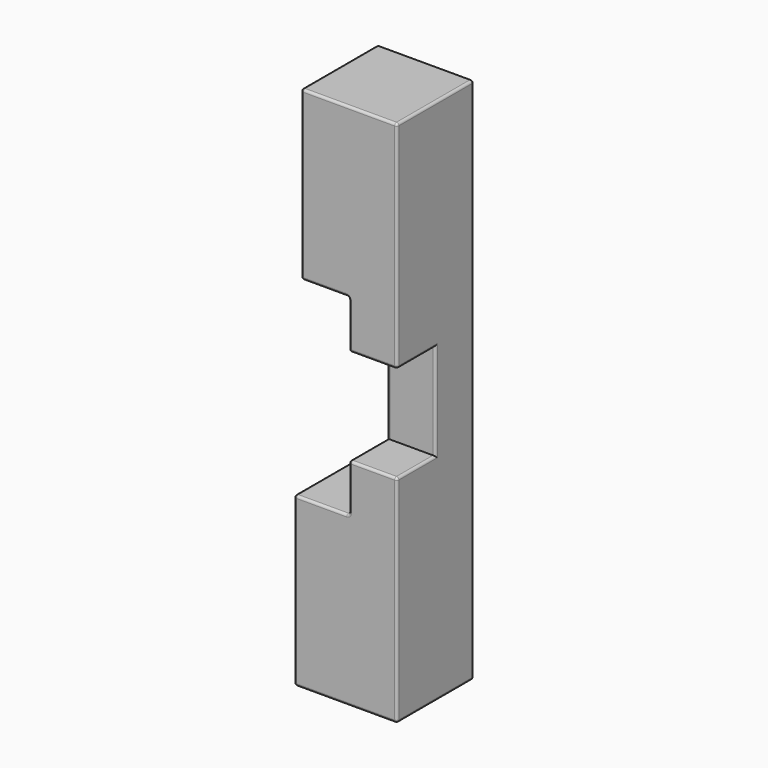
from build123d import *

# Parameters (mm, degrees)
F0_W     = 10
F0_H     = 20
F1_DEPTH = 10
F2_DEPTH = 20
F3_R     = 0.5


with BuildPart() as f1:
    # F0 (on Front) → F1 (new body)
    with BuildSketch(Plane.XZ):
        Polygon((-10, 56.511319), (-10, 21.511319), (0, 21.511319), (0, 11.511319), (10, 11.511319), (10, 56.511319), align=None)
        Polygon((10, -8.488681), (0, -8.488681), (0, -18.488681), (-11.420748, -18.488681), (-11.420748, -53.488681), (10, -53.488681), align=None)
        with Locations((5, 1.511319)):
            Rectangle(F0_W, F0_H)
    extrude(amount=F1_DEPTH)

    # F0 (on Front) → F2 (join)
    with BuildSketch(Plane.XZ):
        Polygon((-10, 56.511319), (-10, 21.511319), (0, 21.511319), (0, 11.511319), (10, 11.511319), (10, 56.511319), align=None)
        Polygon((10, -8.488681), (0, -8.488681), (0, -18.488681), (-11.420748, -18.488681), (-11.420748, -53.488681), (10, -53.488681), align=None)
    extrude(amount=F2_DEPTH)

    # F3
    f3_edges = [f1.edges().sort_by_distance(p)[0] for p in [
        (-10, -20, 39.011319),
        (-5, -20, 21.511319),
        (0, -20, 16.511319),
        (5, -20, 11.511319),
        (10, -20, 34.011319),
        (0, -20, 56.511319),
        (5, -20, -8.488681),
        (0, -20, -13.488681),
        (-5.710374, -20, -18.488681),
        (-11.420748, -20, -35.988681),
        (-0.710374, -20, -53.488681),
        (10, -20, -30.988681),
        (-10, -10, 56.511319),
        (-10, -10, 21.511319),
        (-10, 0, 39.011319),
        (-11.420748, -10, -18.488681),
        (-11.420748, -10, -53.488681),
        (-11.420748, 0, -35.988681),
        (0, -10, 21.511319),
        (0, -15, 11.511319),
        (0, -10, 1.511319),
        (0, -15, -8.488681),
        (0, -10, -18.488681),
        (0, 0, 1.511319),
        (0, 0, 56.511319),
        (-5, 0, 21.511319),
        (-5.710374, 0, -18.488681),
        (-0.710374, 0, -53.488681),
        (10, 0, 1.511319),
        (10, -10, -53.488681),
        (10, -15, -8.488681),
        (10, -10, 1.511319),
        (10, -15, 11.511319),
        (10, -10, 56.511319),
    ]]
    fillet(f3_edges, radius=F3_R)


solid = f1.part
